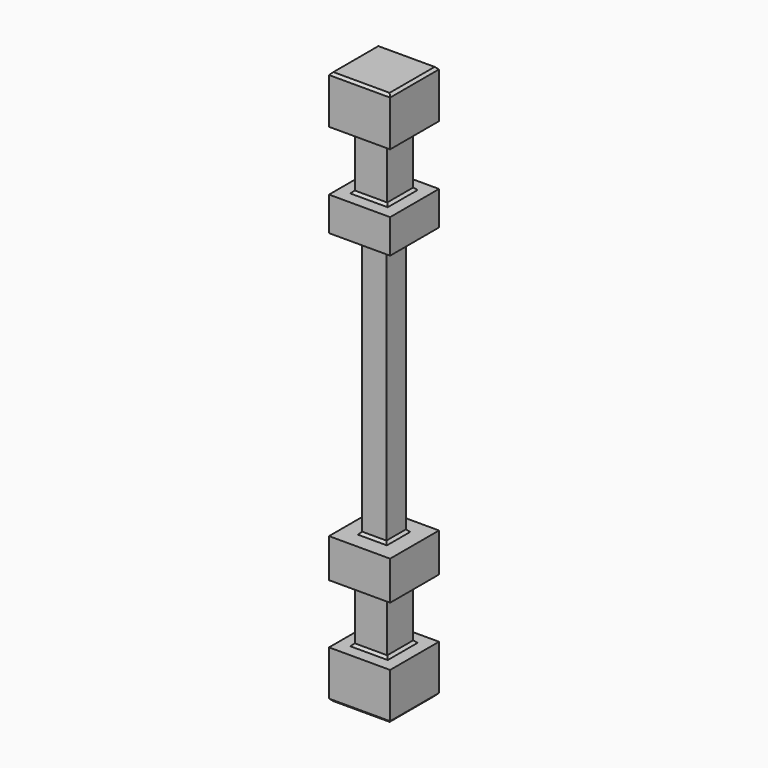
from build123d import *

# Parameters (mm, degrees)
F0_W      = 3.2004
F0_H      = 3.2004
F1_DEPTH  = 2.4892
F2_W      = 1.7018
F2_H      = 1.7018
F3_DEPTH  = 3.0988
F4_W      = 3.2004
F4_H      = 3.2004
F4_W_2    = 1.7018
F4_H_2    = 1.7018
F5_DEPTH  = 2.032
F6_W      = 1.27
F6_H      = 1.27
F7_DEPTH  = 13.97
F8_W      = 3.2004
F8_H      = 3.2004
F8_W_2    = 1.27
F8_H_2    = 1.27
F9_DEPTH  = 1.778
F10_W     = 1.7018
F10_H     = 1.7018
F11_DEPTH = 3.1242
F12_W     = 3.2004
F12_H     = 3.2004
F12_W_2   = 1.7018
F12_H_2   = 1.7018
F13_DEPTH = 2.5146
F14_SIZE2 = 0.127
F14_SIZE  = 0.127


with BuildPart() as f1:
    # F0 (on Top) → F1 (new body)
    with BuildSketch(Plane.XY):
        with Locations((1.6002, 1.6002)):
            Rectangle(F0_W, F0_H)
    extrude(amount=F1_DEPTH)

    # F2 (on face) → F3 (join)
    with BuildSketch(Plane.XY.offset(2.4892)):
        with Locations((1.6002, 1.6002)):
            Rectangle(F2_W, F2_H)
    extrude(amount=F3_DEPTH)

    # F4 (on face) → F5 (join)
    with BuildSketch(Plane.XY.offset(5.588)):
        with Locations((1.6002, 1.6002)):
            Rectangle(F4_W, F4_H)
        with Locations((1.6002, 1.6002)):
            Rectangle(F4_W_2, F4_H_2, mode=Mode.SUBTRACT)
        with Locations((1.6002, 1.6002)):
            Rectangle(F4_W_2, F4_H_2)
    extrude(amount=F5_DEPTH)

    # F6 (on face) → F7 (join)
    with BuildSketch(Plane.XY.offset(7.62)):
        with Locations((1.6002, 1.6002)):
            Rectangle(F6_W, F6_H)
    extrude(amount=F7_DEPTH)

    # F8 (on face) → F9 (join)
    with BuildSketch(Plane.XY.offset(21.59)):
        with Locations((1.6002, 1.6002)):
            Rectangle(F8_W, F8_H)
        with Locations((1.6002, 1.6002)):
            Rectangle(F8_W_2, F8_H_2, mode=Mode.SUBTRACT)
        with Locations((1.6002, 1.6002)):
            Rectangle(F8_W_2, F8_H_2)
    extrude(amount=F9_DEPTH)

    # F10 (on face) → F11 (join)
    with BuildSketch(Plane.XY.offset(23.368)):
        with Locations((1.6002, 1.6002)):
            Rectangle(F10_W, F10_H)
    extrude(amount=F11_DEPTH)

    # F12 (on face) → F13 (join)
    with BuildSketch(Plane.XY.offset(26.4922)):
        with Locations((1.6002, 1.6002)):
            Rectangle(F12_W, F12_H)
        with Locations((1.6002, 1.6002)):
            Rectangle(F12_W_2, F12_H_2, mode=Mode.SUBTRACT)
        with Locations((1.6002, 1.6002)):
            Rectangle(F12_W_2, F12_H_2)
    extrude(amount=F13_DEPTH)

    # F14
    f14_edges = [f1.edges().sort_by_distance(p)[0] for p in [
        (0.7493, 1.6002, 23.368),
        (1.6002, 0.7493, 23.368),
        (0, 1.6002, 29.0068),
        (1.6002, 3.2004, 29.0068),
        (3.2004, 1.6002, 29.0068),
        (1.6002, 0, 29.0068),
        (0.9652, 1.6002, 7.62),
        (1.6002, 0.9652, 7.62),
        (0.7493, 1.6002, 2.4892),
        (1.6002, 0.7493, 2.4892),
        (0, 1.6002, 0),
        (1.6002, 0, 0),
        (0.7493, 1.6002, 26.4922),
        (1.6002, 0.7493, 26.4922),
        (0.9652, 1.6002, 21.59),
        (1.6002, 0.9652, 21.59),
        (0.7493, 1.6002, 5.588),
        (1.6002, 0.7493, 5.588),
        (3.2004, 1.6002, 0),
        (1.6002, 3.2004, 0),
        (2.4511, 1.6002, 26.4922),
        (1.6002, 2.4511, 26.4922),
        (2.2352, 1.6002, 21.59),
        (1.6002, 2.2352, 21.59),
        (2.4511, 1.6002, 5.588),
        (1.6002, 2.4511, 5.588),
        (2.4511, 1.6002, 23.368),
        (1.6002, 2.4511, 23.368),
        (2.2352, 1.6002, 7.62),
        (1.6002, 2.2352, 7.62),
        (2.4511, 1.6002, 2.4892),
        (1.6002, 2.4511, 2.4892),
    ]]
    chamfer(f14_edges, length=F14_SIZE, length2=F14_SIZE2)


solid = f1.part
